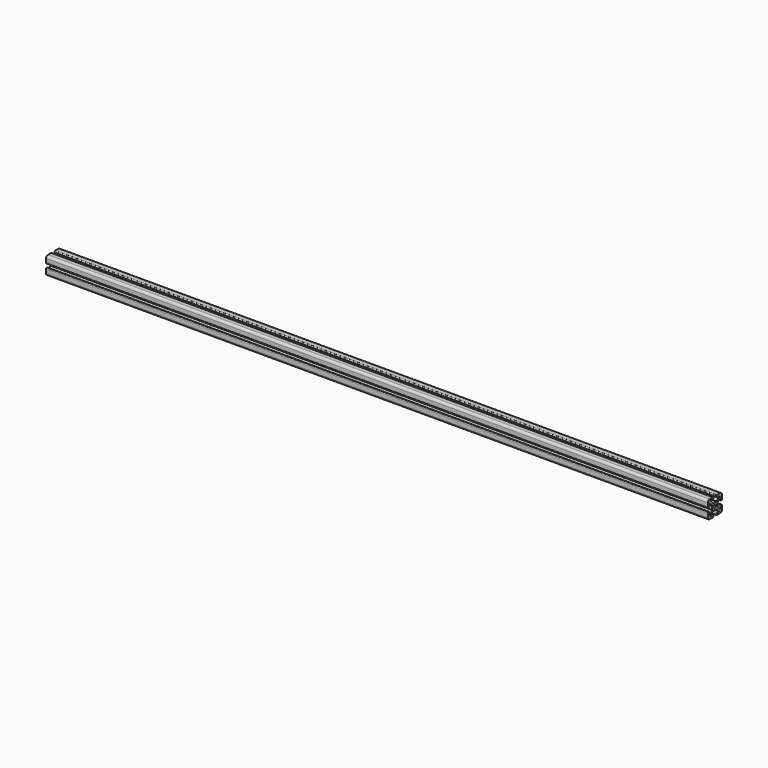
from build123d import *

# Parameters (mm, degrees)
F1_DEPTH = 1500
F2_R     = 2
F3_R     = 5


with BuildPart() as f1:
    # F0 (on Right) → F1 (new body)
    with BuildSketch(Plane.YZ):
        Polygon((-11.62, 7.9759603159), (-15.94, 12.2959603159), (-15.94, -0.5893383893), (-11.62, -0.5893383893), align=None)
        Polygon((-11.62, 11.0306616107), (-15.94, 15.3506616107), (-15.94, 12.2959603159), (-11.62, 7.9759603159), (-8.7938307864, 5.1497911023), (-7.266480139, 6.6771417497), align=None)
        Polygon((-8.5652987053, 11.0306616107), (-11.62, 11.0306616107), (-7.266480139, 6.6771417497), (-5.7391294917, 8.2044923971), align=None)
        Polygon((0, 15.3506616107), (-12.8852987053, 15.3506616107), (-8.5652987053, 11.0306616107), (0, 11.0306616107), align=None)
        Polygon((-12.8852987053, 15.3506616107), (-15.94, 15.3506616107), (-11.62, 11.0306616107), (-8.5652987053, 11.0306616107), align=None)
        Polygon((-15.94, -21.5946370946), (-11.62, -17.2746370946), (-11.62, -8.7093383893), (-15.94, -8.7093383893), align=None)
        Polygon((-3.625, -12.3343383893), (-3.625, -9.2796370946), (-11.62, -17.2746370946), (-15.94, -21.5946370946), (-15.94, -24.6493383893), (-12.8852987053, -24.6493383893), (-8.5652987053, -20.3293383893), (-0.5702987053, -12.3343383893), align=None)
        Polygon((0, -20.3293383893), (-8.5652987053, -20.3293383893), (-12.8852987053, -24.6493383893), (0, -24.6493383893), align=None)
        Polygon((14.9650698751, 9.3104327805), (8.6902987053, 3.0356616107), (11.745, 3.0356616107), (11.745, -0.0190396841), (18.0197711699, 6.2557314858), (19.74, 7.9759603159), (16.6852987053, 11.0306616107), align=None)
        Polygon((21.0052987053, 15.3506616107), (16.6852987053, 11.0306616107), (19.74, 7.9759603159), (24.06, 12.2959603159), (24.06, 15.3506616107), align=None)
        Polygon((24.06, 12.2959603159), (19.74, 7.9759603159), (19.74, -0.5893383893), (24.06, -0.5893383893), align=None)
        Polygon((8.12, 11.0306616107), (16.6852987053, 11.0306616107), (21.0052987053, 15.3506616107), (8.12, 15.3506616107), align=None)
        with BuildLine():
            Line((11.745, -9.2796370946), (11.745, -0.0190396841))
            Line((11.745, -0.0190396841), (7.4440143218, -4.3200253623))
            ThreePointArc((7.4440143218, -4.3200253623), (7.456001229, -4.4844879937), (7.46, -4.6493383893))
            ThreePointArc((7.46, -4.6493383893), (7.456001229, -4.8141887849), (7.4440143218, -4.9786514164))
            Line((7.4440143218, -4.9786514164), (11.745, -9.2796370946))
        make_face()
        with BuildLine():
            Line((3.7306869729, -8.0333527111), (-0.5702987053, -12.3343383893))
            Line((-0.5702987053, -12.3343383893), (8.6902987053, -12.3343383893))
            Line((8.6902987053, -12.3343383893), (4.3893130271, -8.0333527111))
            ThreePointArc((4.3893130271, -8.0333527111), (4.06, -8.0493383893), (3.7306869729, -8.0333527111))
        make_face()
        with BuildLine():
            Line((0.6759856782, -4.3200253623), (-3.625, -0.0190396841))
            Line((-3.625, -0.0190396841), (-3.625, -9.2796370946))
            Line((-3.625, -9.2796370946), (0.6759856782, -4.9786514164))
            ThreePointArc((0.6759856782, -4.9786514164), (0.66, -4.6493383893), (0.6759856782, -4.3200253623))
        make_face()
        with BuildLine():
            Line((8.6902987053, 3.0356616107), (-0.5702987053, 3.0356616107))
            Line((-0.5702987053, 3.0356616107), (3.7306869729, -1.2653240675))
            ThreePointArc((3.7306869729, -1.2653240675), (4.06, -1.2493383893), (4.3893130271, -1.2653240675))
            Line((4.3893130271, -1.2653240675), (8.6902987053, 3.0356616107))
        make_face()
        Polygon((-5.7391294917, 8.2044923971), (-7.266480139, 6.6771417497), (-3.625, 3.0356616107), (-0.5702987053, 3.0356616107), align=None)
        Polygon((-3.625, 3.0356616107), (-7.266480139, 6.6771417497), (-8.7938307864, 5.1497911023), (-3.625, -0.0190396841), align=None)
        Polygon((11.745, -12.3343383893), (8.6902987053, -12.3343383893), (16.6852987053, -20.3293383893), (21.0052987053, -24.6493383893), (24.06, -24.6493383893), align=None)
        Polygon((19.74, -17.2746370946), (11.745, -9.2796370946), (11.745, -12.3343383893), (24.06, -24.6493383893), (24.06, -21.5946370946), align=None)
        Polygon((19.74, -8.7093383893), (19.74, -17.2746370946), (24.06, -21.5946370946), (24.06, -8.7093383893), align=None)
        Polygon((21.0052987053, -24.6493383893), (16.6852987053, -20.3293383893), (8.12, -20.3293383893), (8.12, -24.6493383893), align=None)
        with BuildLine():
            Line((11.745, 3.0356616107), (8.6902987053, 3.0356616107))
            Line((8.6902987053, 3.0356616107), (4.3893130271, -1.2653240675))
            ThreePointArc((4.3893130271, -1.2653240675), (6.464163056, -2.2451753333), (7.4440143218, -4.3200253623))
            Line((7.4440143218, -4.3200253623), (11.745, -0.0190396841))
            Line((11.745, -0.0190396841), (11.745, 3.0356616107))
        make_face()
        with BuildLine():
            Line((1.655836944, -2.2451753333), (-3.625, 3.0356616107))
            Line((-3.625, 3.0356616107), (-3.625, -0.0190396841))
            Line((-3.625, -0.0190396841), (0.6759856782, -4.3200253623))
            ThreePointArc((0.6759856782, -4.3200253623), (0.9855894874, -3.1974430763), (1.655836944, -2.2451753333))
        make_face()
        with BuildLine():
            Line((0.6759856782, -4.9786514164), (-3.625, -9.2796370946))
            Line((-3.625, -9.2796370946), (-3.625, -12.3343383893))
            Line((-3.625, -12.3343383893), (-0.5702987053, -12.3343383893))
            Line((-0.5702987053, -12.3343383893), (3.7306869729, -8.0333527111))
            ThreePointArc((3.7306869729, -8.0333527111), (1.655836944, -7.0535014454), (0.6759856782, -4.9786514164))
        make_face()
        with BuildLine():
            Line((11.745, -12.3343383893), (6.464163056, -7.0535014454))
            ThreePointArc((6.464163056, -7.0535014454), (5.511895313, -7.7237489019), (4.3893130271, -8.0333527111))
            Line((4.3893130271, -8.0333527111), (8.6902987053, -12.3343383893))
            Line((8.6902987053, -12.3343383893), (11.745, -12.3343383893))
        make_face()
        with BuildLine():
            ThreePointArc((7.4440143218, -4.9786514164), (7.1344105126, -6.1012337024), (6.464163056, -7.0535014454))
            Line((6.464163056, -7.0535014454), (11.745, -12.3343383893))
            Line((11.745, -12.3343383893), (11.745, -9.2796370946))
            Line((11.745, -9.2796370946), (7.4440143218, -4.9786514164))
        make_face()
        with BuildLine():
            Line((-0.5702987053, 3.0356616107), (-3.625, 3.0356616107))
            Line((-3.625, 3.0356616107), (1.655836944, -2.2451753333))
            ThreePointArc((1.655836944, -2.2451753333), (2.608104687, -1.5749278767), (3.7306869729, -1.2653240675))
            Line((3.7306869729, -1.2653240675), (-0.5702987053, 3.0356616107))
        make_face()
    extrude(amount=F1_DEPTH)

    # F2
    f2_edges = [f1.edges().sort_by_distance(p)[0] for p in [
        (750, 0, 11.030662),
        (750, -11.62, -0.589338),
        (750, -15.94, -0.589338),
        (750, 0, 15.350662),
        (750, 8.12, 11.030662),
        (750, 19.74, -0.589338),
        (750, 24.06, -0.589338),
        (750, 8.12, -24.649338),
        (750, 8.12, 15.350662),
        (750, -15.94, -8.709338),
        (750, -11.62, -8.709338),
        (750, 0, -24.649338),
        (750, 0, -20.329338),
        (750, 8.12, -20.329338),
        (750, 19.74, -8.709338),
        (750, 24.06, -8.709338),
    ]]
    fillet(f2_edges, radius=F2_R)

    # F3
    f3_edges = [f1.edges().sort_by_distance(p)[0] for p in [
        (750, -15.94, 15.350662),
        (750, 24.06, 15.350662),
        (750, 24.06, -24.649338),
        (750, -15.94, -24.649338),
    ]]
    fillet(f3_edges, radius=F3_R)


solid = f1.part
